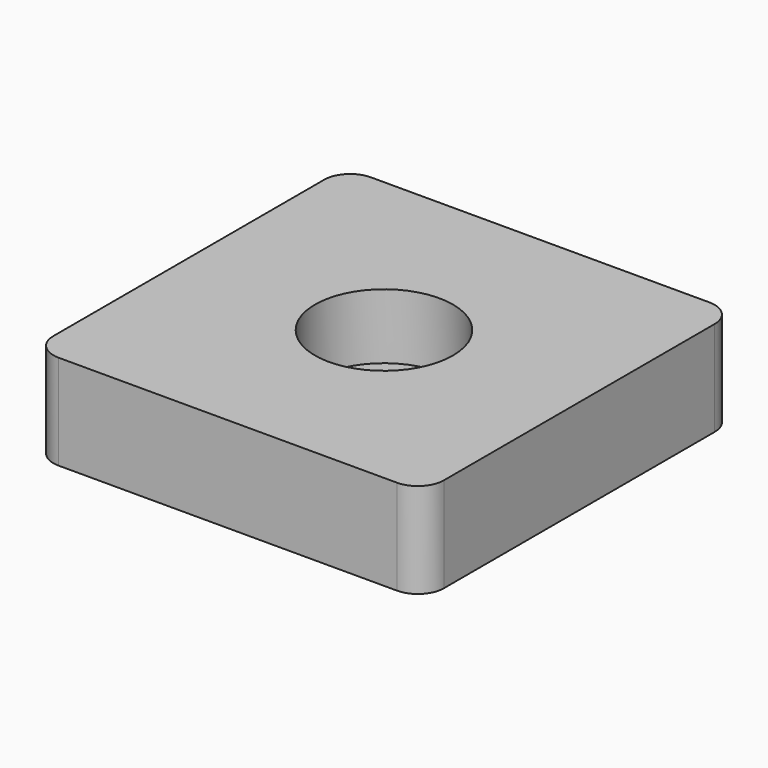
from build123d import *

# Parameters (mm, degrees)
F1_DEPTH = 9.271
F2_R     = 6.731
F3_DEPTH = 6.35


with BuildPart() as f1:
    # F0 (on Top) → F1 (new body)
    with BuildSketch(Plane.XY):
        with BuildLine():
            Line((16.51, 19.05), (-16.51, 19.05))
            ThreePointArc((-16.51, 19.05), (-18.306051, 18.306051), (-19.05, 16.51))
            Line((-19.05, 16.51), (-19.05, -16.51))
            ThreePointArc((-19.05, -16.51), (-18.306051, -18.306051), (-16.51, -19.05))
            Line((-16.51, -19.05), (16.51, -19.05))
            ThreePointArc((16.51, -19.05), (18.306051, -18.306051), (19.05, -16.51))
            Line((19.05, -16.51), (19.05, 16.51))
            ThreePointArc((19.05, 16.51), (18.306051, 18.306051), (16.51, 19.05))
        make_face()
    extrude(amount=F1_DEPTH)

    # F2 (on face) → F3 (cut)
    with BuildSketch(Plane.XY.offset(9.271)):
        Circle(F2_R)
        Circle(F2_R)
    extrude(amount=-F3_DEPTH, mode=Mode.SUBTRACT)


solid = f1.part
